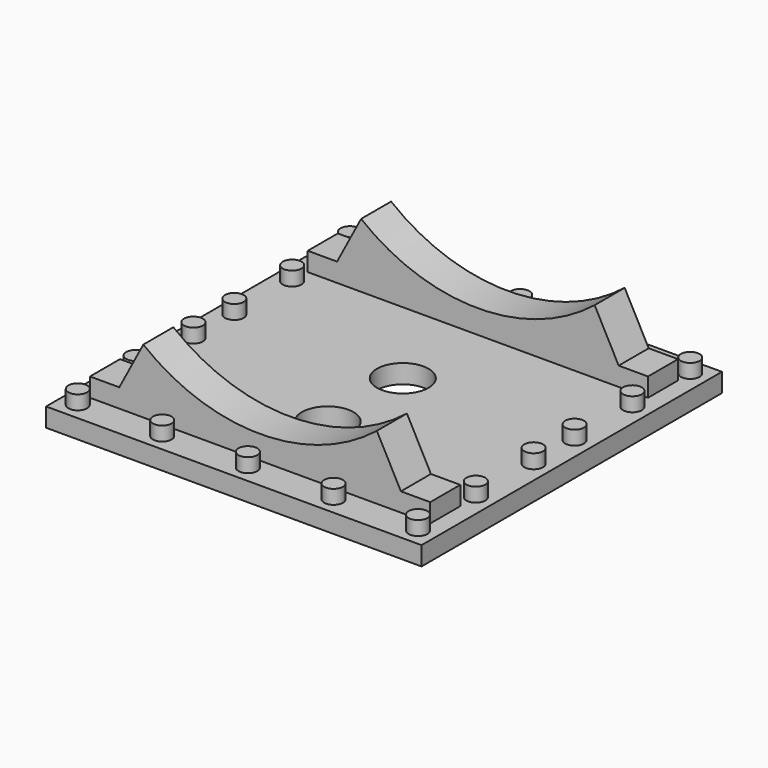
from build123d import *

# Parameters (mm, degrees)
F0_W      = 16
F0_H      = 16
F1_DEPTH  = 0.8
F2_R      = 0.4
F3_DEPTH  = 0.6
F6_DEPTH  = 1.6
F8_R      = 8
F9_DEPTH  = 12.5
F10_R     = 1.1
F11_DEPTH = 0.801


with BuildPart() as f1:
    # F0 (on Top) → F1 (new body)
    with BuildSketch(Plane.XY):
        Rectangle(F0_W, F0_H)
    extrude(amount=F1_DEPTH)

    # F2 (on face) → F3 (join)
    with BuildSketch(Plane.XY.offset(0.8)):
        with Locations((-7.25, 7.25)):
            Circle(F2_R)
        with Locations((-7.25, 4.17)):
            Circle(F2_R)
        with Locations((-7.25, 1.09)):
            Circle(F2_R)
        with Locations((-7.25, -1.09)):
            Circle(F2_R)
        with Locations((-7.25, -4.17)):
            Circle(F2_R)
        with Locations((-7.25, -7.25)):
            Circle(F2_R)
        with Locations((-3.65, 7.25)):
            Circle(F2_R)
        with Locations((0, 7.25)):
            Circle(F2_R)
        with Locations((3.65, 7.25)):
            Circle(F2_R)
        with Locations((7.25, 7.25)):
            Circle(F2_R)
        with Locations((7.25, 4.17)):
            Circle(F2_R)
        with Locations((7.25, 1.09)):
            Circle(F2_R)
        with Locations((7.25, -1.09)):
            Circle(F2_R)
        with Locations((7.25, -4.17)):
            Circle(F2_R)
        with Locations((7.25, -7.25)):
            Circle(F2_R)
        with Locations((0, -7.25)):
            Circle(F2_R)
        with Locations((3.65, -7.25)):
            Circle(F2_R)
        with Locations((-3.65, -7.25)):
            Circle(F2_R)
    extrude(amount=F3_DEPTH)

    # F5 (on offset) → F6 (join)
    with BuildSketch(Plane.XZ.offset(5)):
        with BuildLine():
            ThreePointArc((4.5, 4.4380973526), (0, 2.8), (-4.5, 4.4380973526))
            Line((-4.5, 4.4380973526), (-6, 1.6))
            Line((-6, 1.6), (-7.25, 1.6))
            Line((-7.25, 1.6), (-7.25, 0.8))
            Line((-7.25, 0.8), (7.25, 0.8))
            Line((7.25, 0.8), (7.25, 1.6))
            Line((7.25, 1.6), (6, 1.6))
            Line((6, 1.6), (4.5, 4.4380973526))
        make_face()
    extrude(amount=F6_DEPTH)

    # F7: F1 across plane


with BuildPart() as f1_1:
    add(f1.part)
    add(f1.part.mirror(Plane.XZ))

    # F8 (on offset) → F9 (cut, symmetric)
    with BuildSketch(Plane.XZ.offset(5)):
        with Locations((0, 9.8)):
            Circle(F8_R)
    extrude(amount=F9_DEPTH, both=True, mode=Mode.SUBTRACT)

    # F10 (on face) → F11 (cut, through all)
    with BuildSketch(Plane.XY.offset(0.8)):
        with Locations((0, -3)):
            Circle(F10_R)
        with Locations((0, 1)):
            Circle(F10_R)
    extrude(amount=-F11_DEPTH, mode=Mode.SUBTRACT)


solid = f1_1.part
